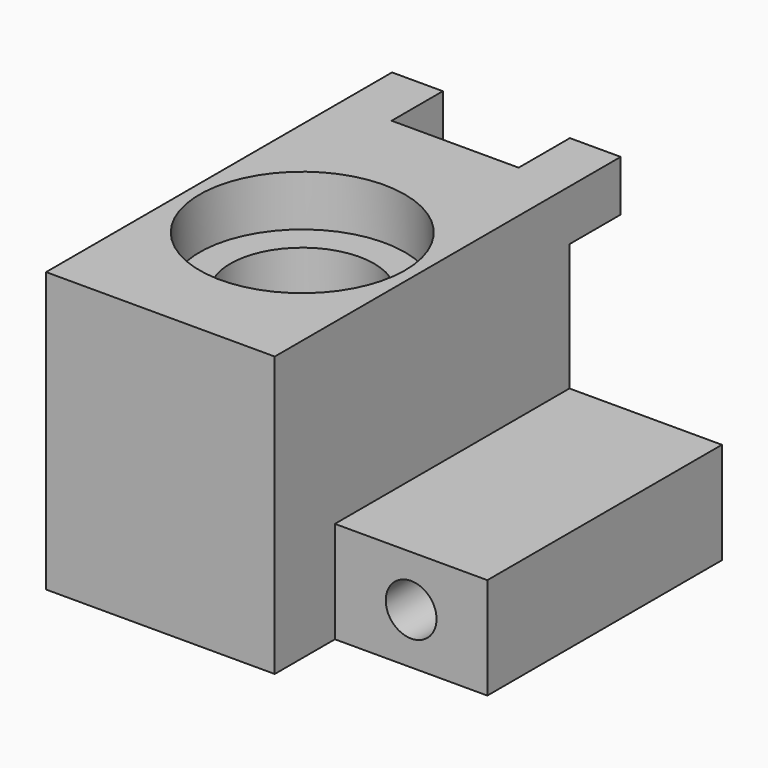
from build123d import *

# Parameters (mm, degrees)
F0_W      = 76.2
F0_H      = 50.8
F0_R      = 12.7
F1_DEPTH  = 184.15
F2_R      = 51.343595
F2_R_2    = 35.929937
F3_DEPTH  = 25.4
F3_FACE_R = 35.929937
F4_DEPTH  = 311.15
F5_W      = 25.4
F5_H      = 25.4
F6_DEPTH  = 32.004
F7_W      = 76.2
F7_H      = 50.8
F7_R      = 12.7
F8_DEPTH  = 37.592
F9_DEPTH  = 0.762


with BuildPart() as f1:
    # F0 (on Front) → F1 (new body)
    with BuildSketch(Plane.XZ):
        Polygon((0, 52.28221), (-114.3, 52.28221), (-114.3, -87.41779), (0, -87.41779), (0, -36.61779), align=None)
        with Locations((38.1, -62.01779)):
            Rectangle(F0_W, F0_H)
        with Locations((38.1, -62.01779)):
            Circle(F0_R, mode=Mode.SUBTRACT)
    extrude(amount=-F1_DEPTH)

    # F2 (on face) → F3 (cut)
    with BuildSketch(Plane.XY.offset(52.28221)):
        with Locations((-57.15, 88.635586)):
            Circle(F2_R)
        with Locations((-57.15, 88.635586)):
            Circle(F2_R_2, mode=Mode.SUBTRACT)
    extrude(amount=-F3_DEPTH, mode=Mode.SUBTRACT)

    # F3_face (on face) → F4 (cut)
    with BuildSketch(Plane(origin=(-57.15, 88.635586, 52.28221), x_dir=(1, 0, 0), z_dir=(0, 0, 1))):
        Circle(F3_FACE_R)
    extrude(amount=-F4_DEPTH, mode=Mode.SUBTRACT)

    # F5 (on face) → F6 (join)
    with BuildSketch(Plane(origin=(0, 184.15, 0), x_dir=(-1, 0, 0), z_dir=(0, 1, 0))):
        with Locations((12.7, 39.58221)):
            Rectangle(F5_W, F5_H)
        with Locations((101.6, 39.58221)):
            Rectangle(F5_W, F5_H)
    extrude(amount=F6_DEPTH)

    # F7 (on face) → F8 (cut)
    with BuildSketch(Plane.XZ):
        with Locations((38.1, -62.01779)):
            Rectangle(F7_W, F7_H)
        with Locations((38.1, -62.01779)):
            Circle(F7_R, mode=Mode.SUBTRACT)
    extrude(amount=-F8_DEPTH, mode=Mode.SUBTRACT)

    # F6_face (on face) → F9 (join)
    with BuildSketch(Plane(origin=(-114.3, 95.38549, -15.817237), x_dir=(0, -1, 0), z_dir=(-1, 0, 0))):
        Polygon((95.38549, 68.099447), (-120.76851, 68.099447), (-120.76851, 42.699447), (-88.76451, 42.699447), (-88.76451, -71.600553), (95.38549, -71.600553), align=None)
    extrude(amount=-F9_DEPTH)


solid = f1.part
